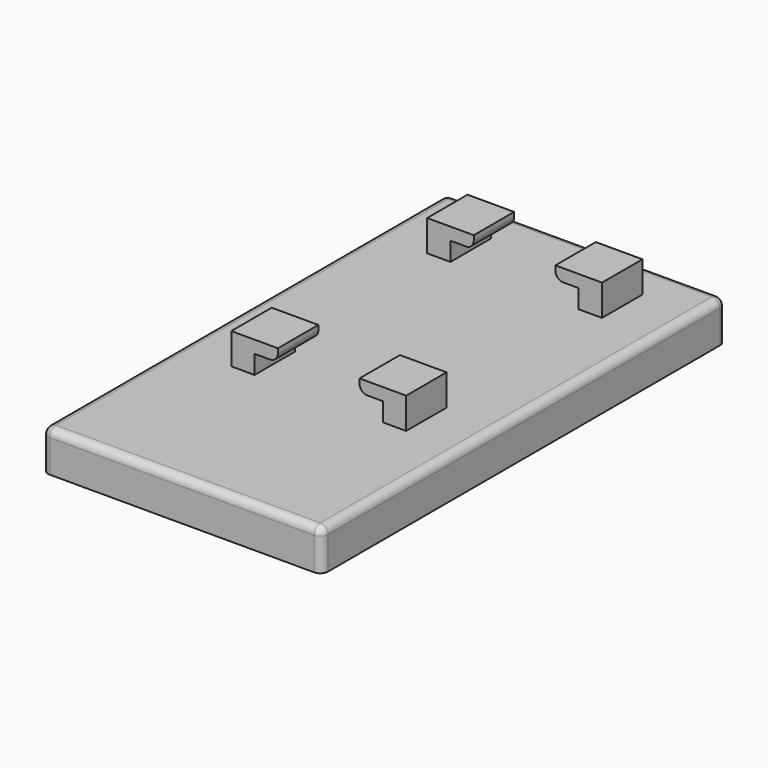
from build123d import *

# Parameters (mm, degrees)
SKETCH_W        = 36
SKETCH_H        = 65
PAD_DEPTH       = 2.2
POCKET_DEPTH    = 2.201
SKETCH002_W     = 36
SKETCH002_H     = 65
PAD001_DEPTH    = 3
POCKET001_START = 2
SKETCH003_W     = 4
SKETCH003_H     = 13.5
SKETCH003_W_2   = 3.848829
POCKET001_DEPTH = 2
SKETCH004_W     = 6
SKETCH004_H     = 6.5
PAD002_DEPTH    = 4
SKETCH005_W     = 16.5
SKETCH005_H     = 38
POCKET002_DEPTH = 2.4
FILLET_R        = 1
FILLET001_R     = 1
FILLET002_R     = 1
FILLET003_R     = 1
FILLET004_R     = 1
FILLET005_R     = 1


with BuildPart() as part:
    # Sketch → Pad (new body)
    with BuildSketch(Plane.XY):
        Rectangle(SKETCH_W, SKETCH_H)
    extrude(amount=PAD_DEPTH)

    # Sketch001 → Pocket (cut, through all)
    with BuildSketch(Plane.XY):
        Polygon((-11.25, -9), (-11.25, -22.5), (-7.25, -22.5), (-7.25, -15.5), (-8.9, -15.5), (-8.9, -9), align=None)
        Polygon((-11.25, 21), (-11.25, 7.5), (-7.25, 7.5), (-7.25, 14.5), (-8.9, 14.5), (-8.9, 21), align=None)
        Polygon((11.098829, -9), (11.098829, -22.5), (7.25, -22.5), (7.25, -15.5), (8.977746, -15.5), (8.977746, -9), align=None)
        Polygon((11.098829, 21), (11.098829, 7.5), (7.25, 7.5), (7.25, 14.5), (8.903816, 14.5), (8.903816, 21), align=None)
    extrude(amount=POCKET_DEPTH, mode=Mode.SUBTRACT)

    # Sketch002 (on Face5 of Pocket) → Pad001 (join)
    with BuildSketch(Plane.XY.offset(2.2)):
        Rectangle(SKETCH002_W, SKETCH002_H)
    extrude(amount=PAD001_DEPTH)

    # Sketch003 → Pocket001 (cut)
    with BuildSketch(Plane.XY.offset(POCKET001_START)):
        with Locations((-9.25, 14.25)):
            Rectangle(SKETCH003_W, SKETCH003_H)
        with Locations((9.174415, 14.25)):
            Rectangle(SKETCH003_W_2, SKETCH003_H)
        with Locations((9.174415, -15.75)):
            Rectangle(SKETCH003_W_2, SKETCH003_H)
        with Locations((-9.25, -15.75)):
            Rectangle(SKETCH003_W, SKETCH003_H)
    extrude(amount=POCKET001_DEPTH, mode=Mode.SUBTRACT)

    # Sketch004 (on Face33 of Pocket001) → Pad002 (join)
    with BuildSketch(Plane.XY.offset(5.2)):
        with Locations((-8.25, 24.25)):
            Rectangle(SKETCH004_W, SKETCH004_H)
        with Locations((8.25, 24.25)):
            Rectangle(SKETCH004_W, SKETCH004_H)
        with Locations((-8.25, -7.25)):
            Rectangle(SKETCH004_W, SKETCH004_H)
        with Locations((8.25, -7.25)):
            Rectangle(SKETCH004_W, SKETCH004_H)
    extrude(amount=PAD002_DEPTH)

    # Sketch005 (on Face33 of Pad002) → Pocket002 (cut)
    with BuildSketch(Plane.XY.offset(5.2)):
        with Locations((0, 8.5)):
            Rectangle(SKETCH005_W, SKETCH005_H)
    extrude(amount=POCKET002_DEPTH, mode=Mode.SUBTRACT)

    # Fillet
    fillet_edges = [part.edges().sort_by_distance(p)[0] for p in [
        (18, 0, 5.2),
    ]]
    fillet(fillet_edges, radius=FILLET_R)

    # Fillet001
    fillet001_edges = [part.edges().sort_by_distance(p)[0] for p in [
        (-0.5, -32.5, 5.2),
    ]]
    fillet(fillet001_edges, radius=FILLET001_R)

    # Fillet002
    fillet002_edges = [part.edges().sort_by_distance(p)[0] for p in [
        (-18, 0.5, 5.2),
    ]]
    fillet(fillet002_edges, radius=FILLET002_R)

    # Fillet003
    fillet003_edges = [part.edges().sort_by_distance(p)[0] for p in [
        (0, 32.5, 5.2),
    ]]
    fillet(fillet003_edges, radius=FILLET003_R)

    # Fillet004
    fillet004_edges = [part.edges().sort_by_distance(p)[0] for p in [
        (5.25, -7.25, 7.6),
        (5.25, 24.25, 7.6),
    ]]
    fillet(fillet004_edges, radius=FILLET004_R)

    # Fillet005
    fillet005_edges = [part.edges().sort_by_distance(p)[0] for p in [
        (-5.25, 24.25, 7.6),
        (-5.25, -7.25, 7.6),
    ]]
    fillet(fillet005_edges, radius=FILLET005_R)


solid = part.part
